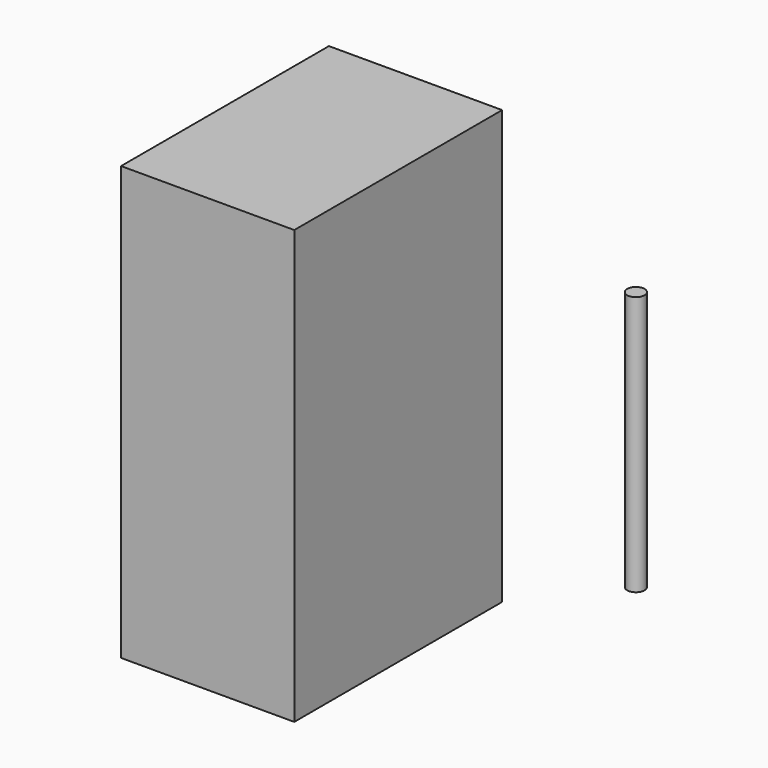
from build123d import *

# Parameters (mm, degrees)
F0_R     = 1
F1_DEPTH = 30
F2_W     = 30
F2_H     = 50
F3_DEPTH = 10


with BuildPart() as f1:
    # F0 (on Top) → F1 (new body)
    with BuildSketch(Plane.XY):
        with Locations((-18.384527, 9.300412)):
            Circle(F0_R)
    extrude(amount=-F1_DEPTH)


with BuildPart() as f3:
    # F2 (on Right) → F3 (new body, symmetric)
    with BuildSketch(Plane.YZ):
        with Locations((-60.484701, 25)):
            Rectangle(F2_W, F2_H)
    extrude(amount=F3_DEPTH, both=True)


solid = Compound([f1.part, f3.part])
